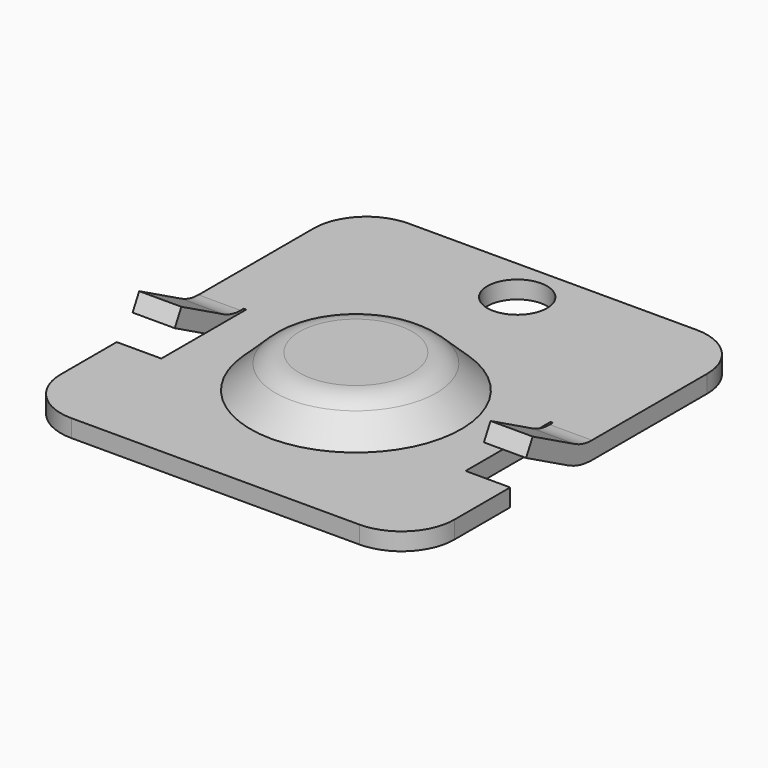
from build123d import *

# Parameters (mm, degrees)
PAD_DEPTH     = 0.5
SKETCH001_R   = 0.76
HOLE_DEPTH    = 0.501
FILLET_R      = 1.5
SKETCH002_R   = 0.85
HOLE001_DEPTH = 0.501
PAD001_DEPTH  = 1.2
FILLET001_R   = 1


with BuildPart() as part:
    # Sketch → Pad (new body)
    with BuildSketch(Plane.XY):
        Polygon((0, -5), (5.6, -5), (5.6, -1.51), (4.33, -1.51), (4.33, 1.51), (5.6, 1.51), (5.6, 7), (1.5, 7), (-1.5, 7), (-5.6, 7), (-5.6, 1.51), (-4.33, 1.51), (-4.33, -1.51), (-5.6, -1.51), (-5.6, -5), align=None)
    extrude(amount=PAD_DEPTH)

    # Sketch001 → Hole (cut, through all)
    with BuildSketch(Plane.XY):
        with Locations((0, 11.84)):
            Circle(SKETCH001_R)
    extrude(amount=HOLE_DEPTH, mode=Mode.SUBTRACT)

    # Fillet
    fillet_edges = [part.edges().sort_by_distance(p)[0] for p in [
        (-5.6, 7, 0.25),
        (-5.6, -5, 0.25),
        (5.6, 7, 0.25),
        (5.6, -5, 0.25),
    ]]
    fillet(fillet_edges, radius=FILLET_R)

    # Sketch002 → Hole001 (cut, through all)
    with BuildSketch(Plane.XY):
        with Locations((0, 5.74)):
            Circle(SKETCH002_R)
    extrude(amount=HOLE001_DEPTH, mode=Mode.SUBTRACT)

    # Sketch003 → Revolution (revolve)
    with BuildSketch(Plane.YZ):
        Polygon((-3, 0.5), (0, 0.5), (0, 1.45), (-2, 1.45), align=None)
    revolve(axis=Axis((0, 0, 0), (0, 0, 1)))

    # Sketch004 → Pad001 (join)
    with BuildSketch(Plane.YZ.offset(5.6)):
        with BuildLine():
            Line((2, 0), (2, 0.5))
            Line((2, 0.5), (1.4, 0.5))
            ThreePointArc((0.790769, 0.651898), (1.086059, 0.538547), (1.4, 0.5))
            Line((0.790769, 0.651898), (-0.710242, 1.45))
            Line((-0.710242, 1.45), (-0.944978, 1.008526))
            Line((-0.944978, 1.008526), (0.556033, 0.210425))
            ThreePointArc((0.556033, 0.210425), (0.965098, 0.053399), (1.4, 0))
            Line((1.4, 0), (2, 0))
        make_face()
    pad001 = extrude(amount=-PAD001_DEPTH)

    # Fillet001
    fillet001_edges = [part.edges().sort_by_distance(p)[0] for p in [
        (0, 2, 1.45),
    ]]
    fillet(fillet001_edges, radius=FILLET001_R)

    # Mirrored: Pad001 across YZ
    add(pad001.mirror(Plane.YZ))


solid = part.part
